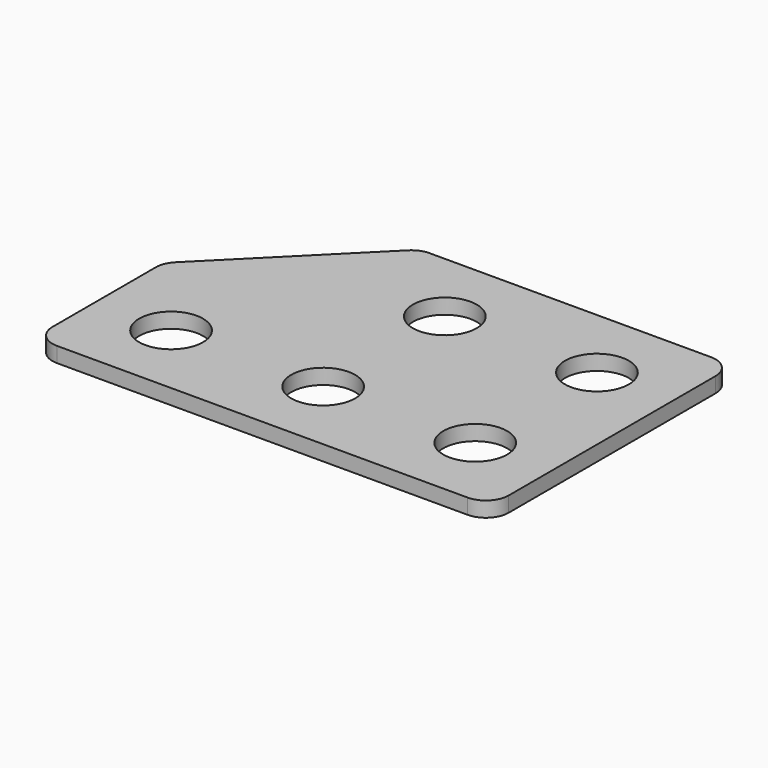
from build123d import *

# Parameters (mm, degrees)
SKETCH_R  = 2.1
PAD_DEPTH = 1


with BuildPart() as part:
    # Sketch → Pad (new body)
    with BuildSketch(Plane.XY):
        with BuildLine():
            Line((5, 15), (23.5, 15))
            ThreePointArc((25, 13.5), (24.56066, 14.56066), (23.5, 15))
            Line((25, 13.5), (25, -3.5))
            ThreePointArc((23.5, -5), (24.56066, -4.56066), (25, -3.5))
            Line((23.5, -5), (-3.5, -5))
            ThreePointArc((-5, -3.5), (-4.56066, -4.56066), (-3.5, -5))
            Line((-5, -3.5), (-5, 5))
            ThreePointArc((-4.56066, 6.06066), (-4.885819, 5.574025), (-5, 5))
            Line((-4.56066, 6.06066), (3.93934, 14.56066))
            ThreePointArc((5, 15), (4.425975, 14.885819), (3.93934, 14.56066))
        make_face()
        Circle(SKETCH_R, mode=Mode.SUBTRACT)
        with Locations((10, 0)):
            Circle(SKETCH_R, mode=Mode.SUBTRACT)
        with Locations((20, 0)):
            Circle(SKETCH_R, mode=Mode.SUBTRACT)
        with Locations((10, 10)):
            Circle(SKETCH_R, mode=Mode.SUBTRACT)
        with Locations((20, 10)):
            Circle(SKETCH_R, mode=Mode.SUBTRACT)
    extrude(amount=PAD_DEPTH)


solid = part.part
